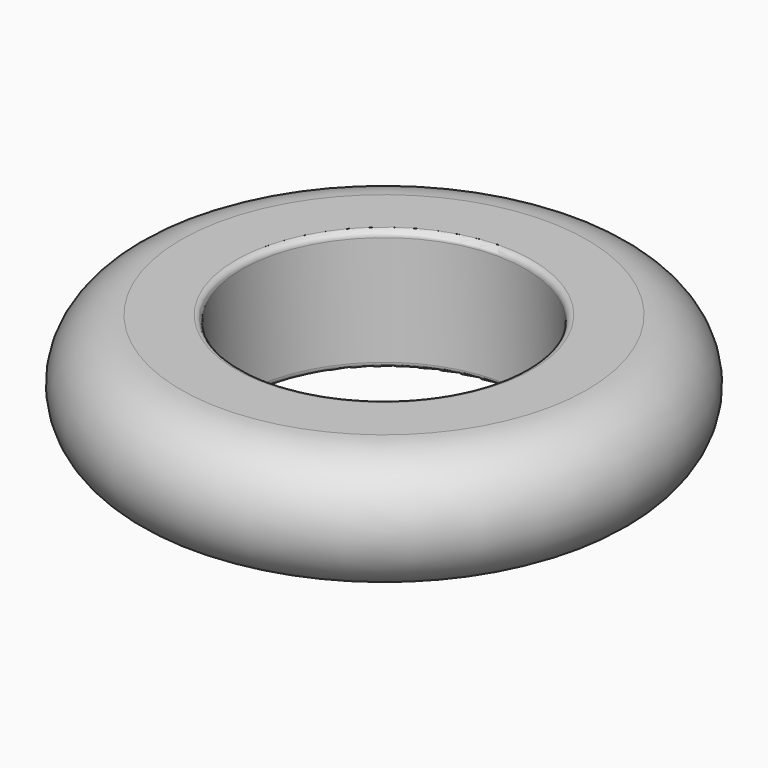
from build123d import *

# Parameters (mm, degrees)
F2_R = 0.3


with BuildPart() as f1:
    # F0 (on Front) → F1 (revolve)
    with BuildSketch(Plane.XZ):
        with BuildLine():
            Line((-3, 0), (0, 0))
            Line((0, 0), (0, 6))
            Line((0, 6), (-3, 6))
            ThreePointArc((-3, 6), (-6, 3), (-3, 0))
        make_face()
    revolve(axis=Axis((7, 0, 3.808794776), (0, 0, 1)))

    # F2
    f2_edges = [f1.edges().sort_by_distance(p)[0] for p in [
        (14, 0, 6),
        (14, 0, 0),
        (17, 0, 6),
        (17, 0, 0),
    ]]
    fillet(f2_edges, radius=F2_R)


solid = f1.part
